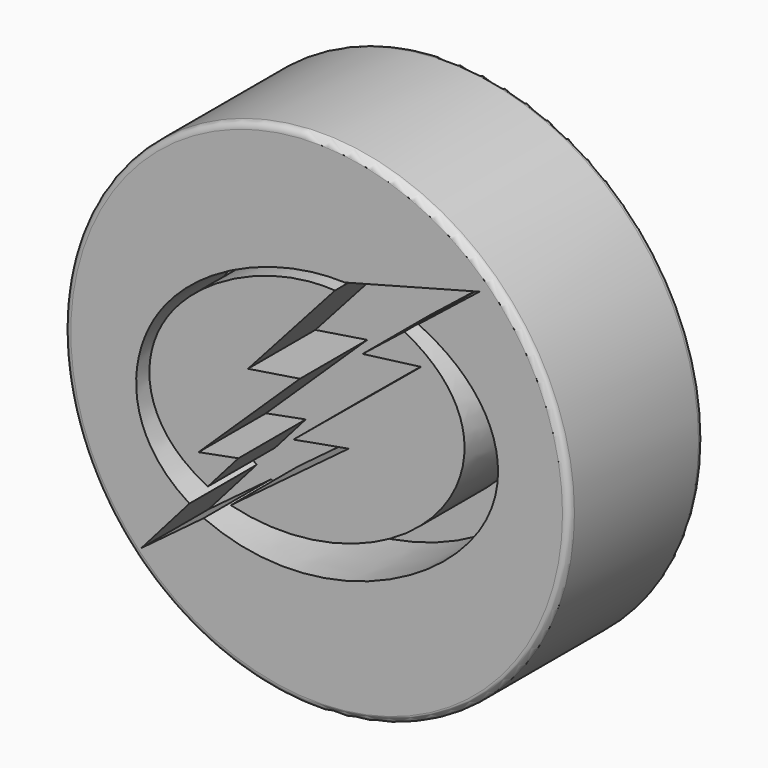
from build123d import *

# Parameters (mm, degrees)
F3_R     = 38.1
F4_DEPTH = 12.7
F5_DEPTH = 12.7
F6_R     = 1


with BuildPart() as f4:
    # F3 (on Front) → F4 (new body, symmetric)
    with BuildSketch(Plane.XZ):
        Circle(F3_R)
    extrude(amount=F4_DEPTH, both=True)

    # F0 (on Front) + F1 (on Front) + F2 (on Front) → F5 (cut)
    with BuildSketch(Plane.XZ):
        Polygon((-11.8081336841, -8.5378140211), (-26.464993082, -25.2349018068), (4.8301340017, -1.8485224727), (-3.5016993061, -3.3492420334), (15.7506130636, 12.5613436103), (6.9332248531, 11.4183481783), (24.5728250593, 25.4238694906), (4.1189347394, 19.9994817376), (-10.358533822, 3.8266193587), (-2.5237547234, 5.047195591), (-17.8205184639, -9.6808085218), align=None)
    with BuildSketch(Plane.XZ):
        with BuildLine():
            Line((-19.0900918096, -17.018487677), (-16.3832232356, -13.7969218194))
            add(Edge.make_bspline(
                [(-16.3832232356, -13.7969218194), (-25.3736051563, -9.473731392), (-29.0905786368, 8.1572549104), (-7.3840054694, 19.1332485124), (2.8318234254, 18.4940695763)],
                knots=[0, 0, 0, 0, 0.4527371046, 1, 1, 1, 1], degree=3))
            Line((2.8318234254, 18.4940695763), (4.588526208, 20.0228095055))
            add(Edge.make_bspline(
                [(-19.0900918096, -17.018487677), (-28.620544821, -11.2098539248), (-29.5136057934, 10.2947418894), (-6.1136707664, 20.5405261368), (4.588526208, 20.0228095055)],
                knots=[0, 0, 0, 0, 0.4639479817, 1, 1, 1, 1], degree=3))
        make_face()
    with BuildSketch(Plane.XZ):
        with BuildLine():
            add(Edge.make_bspline(
                [(-13.784956187, -14.9299576879), (-0.5538631669, -18.623918621), (24.9938380842, -8.3206427927), (23.5522668809, 11.1457686871), (13.0951637402, 16.5083874017)],
                knots=[0, 0, 0, 0, 0.5594726936, 1, 1, 1, 1], degree=3))
            Line((-13.784956187, -14.9299576879), (-17.4717549235, -18.0134642869))
            add(Edge.make_bspline(
                [(-17.4717549235, -18.0134642869), (-0.7163750913, -25.6539166477), (35.1580871339, -8.4938520858), (26.0995104909, 13.357847929), (14.8380147293, 18.3182712644)],
                knots=[0, 0, 0, 0, 0.5723759264, 1, 1, 1, 1], degree=3))
            Line((14.8380147293, 18.3182712644), (13.0951637402, 16.5083874017))
        make_face()
    extrude(amount=F5_DEPTH, mode=Mode.SUBTRACT)

    # F6
    f6_edges = [f4.edges().sort_by_distance(p)[0] for p in [
        (-38.1, -12.7, 0),
        (-38.1, 12.7, 0),
    ]]
    fillet(f6_edges, radius=F6_R)


solid = f4.part
